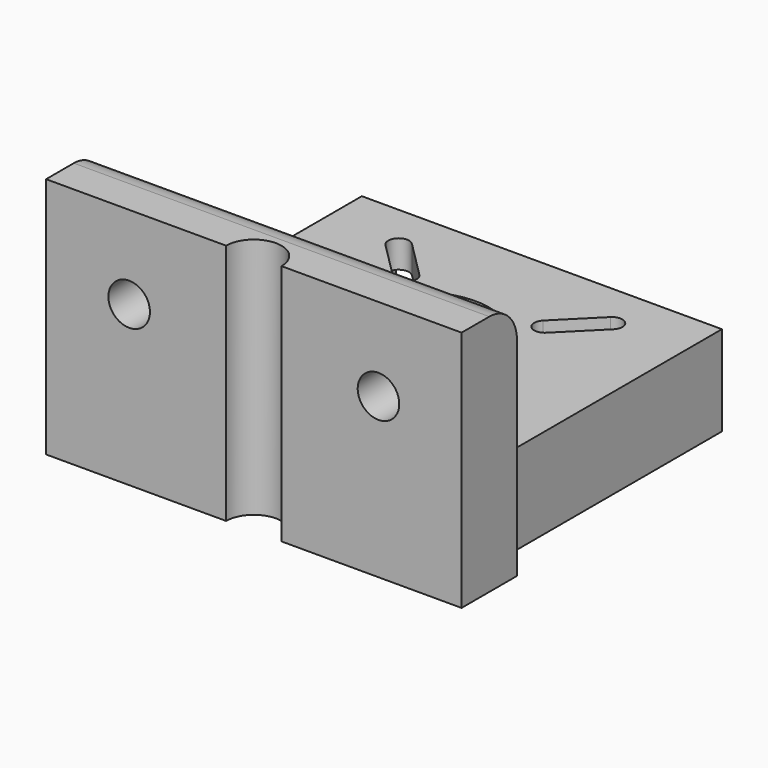
from build123d import *

# Parameters (mm, degrees)
SKETCH003_R  = 10
PAD003_DEPTH = 4
SKETCH001_R  = 3
PAD002_DEPTH = 10
PAD001_DEPTH = 35
PAD_DEPTH    = 42
FILLET_R     = 5


with BuildPart() as motormount:
    # Sketch003 → Pad003 (new body)
    with BuildSketch(Plane.XY.offset(13)):
        with Locations((-1.743039, 25.632756)):
            Circle(SKETCH003_R)
        with BuildLine():
            ThreePointArc((14.71762, 39.972094), (14.717625, 42.093413), (12.596306, 42.093421))
            Line((7.196308, 36.693422), (12.596306, 42.093421))
            ThreePointArc((7.196308, 36.693422), (7.196301, 34.572096), (9.317627, 34.572101))
            Line((9.317627, 34.572101), (14.71762, 39.972094))
        make_face()
        with BuildLine():
            ThreePointArc((12.596306, 9.172091), (14.717625, 9.172099), (14.71762, 11.293417))
            Line((9.317628, 16.693409), (14.71762, 11.293417))
            ThreePointArc((9.317628, 16.693409), (7.196301, 16.693416), (7.196308, 14.572089))
            Line((7.196308, 14.572089), (12.596306, 9.172091))
        make_face()
        with BuildLine():
            ThreePointArc((-16.082385, 42.093423), (-18.203705, 42.09341), (-18.203694, 39.972091))
            Line((-12.803692, 34.572088), (-18.203694, 39.972091))
            ThreePointArc((-12.803692, 34.572088), (-10.682372, 34.572101), (-10.682383, 36.693421))
            Line((-10.682383, 36.693421), (-16.082385, 42.093423))
        make_face()
        with BuildLine():
            ThreePointArc((-18.203691, 11.293424), (-18.203707, 9.172104), (-16.082386, 9.172087))
            Line((-16.082386, 9.172087), (-10.682386, 14.572088))
            ThreePointArc((-10.682386, 14.572088), (-10.68237, 16.693408), (-12.80369, 16.693424))
            Line((-18.203691, 11.293424), (-12.80369, 16.693424))
        make_face()
    extrude(amount=-PAD003_DEPTH)


with BuildPart() as cutblock:
    # Sketch001 → Pad002 (new body)
    with BuildSketch(Plane(origin=(0, 5.632756, 0), x_dir=(-1, 0, 0), z_dir=(0, 1, 0))):
        with Locations((-16.256961, 23)):
            Circle(SKETCH001_R)
        with Locations((19.743039, 23)):
            Circle(SKETCH001_R)
    extrude(amount=-PAD002_DEPTH)

    # Fusion001: union MotorMount
    add(motormount.part)


with BuildPart() as base:
    # Sketch → Pad001 (new body)
    with BuildSketch(Plane.XY):
        with BuildLine():
            Line((-31.743039, 5.632756), (28.256961, 5.632756))
            Line((28.256961, 5.632756), (28.256961, -4.367244))
            Line((2.256961, -4.367244), (28.256961, -4.367244))
            ThreePointArc((2.256961, -4.367244), (-1.743039, -0.367244), (-5.743039, -4.367244))
            Line((-31.743039, -4.367244), (-5.743039, -4.367244))
            Line((-31.743039, -4.367244), (-31.743039, 5.632756))
        make_face()
    extrude(amount=PAD001_DEPTH)


with BuildPart() as fillet_body:
    # Sketch002 → Pad (new body)
    with BuildSketch(Plane(origin=(0, 5.632756, 0), x_dir=(-1, 0, 0), z_dir=(0, 1, 0))):
        Polygon((-24.256961, 13), (27.743039, 13), (27.743039, 0), (22.843039, 0), (22.843039, 9), (-19.356961, 9), (-19.356961, 0), (-24.256961, 0), align=None)
    extrude(amount=PAD_DEPTH)

    # Fusion: union Base
    add(base.part)

    # Cut: cut CutBlock
    add(cutblock.part, mode=Mode.SUBTRACT)

    # Fillet
    fillet_edges = [fillet_body.edges().sort_by_distance(p)[0] for p in [
        (-1.743039, 5.632756, 35),
    ]]
    fillet(fillet_edges, radius=FILLET_R)


solid = fillet_body.part
